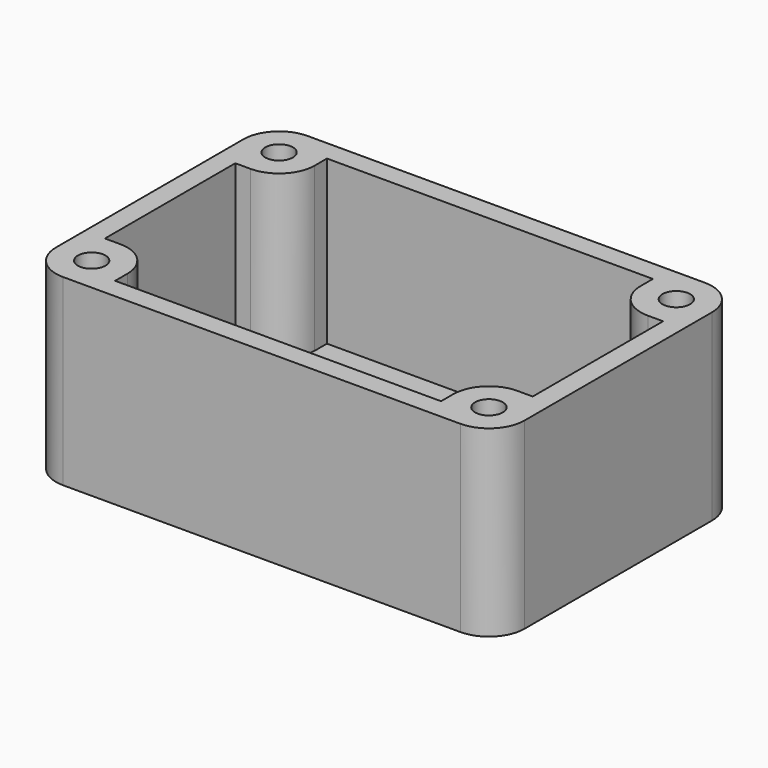
from build123d import *

# Parameters (mm, degrees)
F0_W     = 73.025
F0_H     = 47.625
F0_R     = 2.15265
F1_DEPTH = 25.4
F2_W     = 73.025
F2_H     = 47.625
F2_R     = 2.15265
F3_DEPTH = 3.175
F4_R     = 5.55625
F5_R     = 3.96875
F7_DEPTH = 25.4


with BuildPart() as f1:
    # F0 (on Top) → F1 (new body)
    with BuildSketch(Plane.XY):
        with Locations((-25.4, 12.7)):
            Rectangle(F0_W, F0_H)
        with Locations((-56.35625, -5.55625)):
            Circle(F0_R, mode=Mode.SUBTRACT)
        with Locations((5.55625, -5.55625)):
            Circle(F0_R, mode=Mode.SUBTRACT)
        Polygon((7.9375, 0), (0, 0), (0, -7.9375), (-50.8, -7.9375), (-50.8, 0), (-58.7375, 0), (-58.7375, 25.4), (-50.8, 25.4), (-50.8, 33.3375), (0, 33.3375), (0, 25.4), (7.9375, 25.4), align=None, mode=Mode.SUBTRACT)
        with Locations((-56.35625, 30.95625)):
            Circle(F0_R, mode=Mode.SUBTRACT)
        with Locations((5.55625, 30.95625)):
            Circle(F0_R, mode=Mode.SUBTRACT)
    extrude(amount=F1_DEPTH)

    # F2 (on face) → F3 (join)
    with BuildSketch(Plane(origin=(0, 0, 0), x_dir=(1, 0, 0), z_dir=(0, 0, -1))):
        with Locations((-25.4, -12.7)):
            Rectangle(F2_W, F2_H)
        with Locations((-56.35625, -30.95625)):
            Circle(F2_R, mode=Mode.SUBTRACT)
        with Locations((5.55625, -30.95625)):
            Circle(F2_R, mode=Mode.SUBTRACT)
        with Locations((-56.35625, 5.55625)):
            Circle(F2_R, mode=Mode.SUBTRACT)
        with Locations((5.55625, 5.55625)):
            Circle(F2_R, mode=Mode.SUBTRACT)
    extrude(amount=F3_DEPTH)

    # F4
    f4_edges = [f1.edges().sort_by_distance(p)[0] for p in [
        (-50.8, 25.4, 12.7),
        (-61.9125, 36.5125, 11.1125),
        (0, 25.4, 12.7),
        (11.1125, 36.5125, 11.1125),
        (0, 0, 12.7),
        (11.1125, -11.1125, 11.1125),
        (-50.8, 0, 12.7),
        (-61.9125, -11.1125, 11.1125),
    ]]
    fillet(f4_edges, radius=F4_R)

    # F5 (on face) → F7 (cut, through all)
    with BuildSketch(Plane(origin=(0, 0, -3.175), x_dir=(1, 0, 0), z_dir=(0, 0, -1))):
        with Locations((-56.35625, 5.55625)):
            Circle(F5_R)
        with Locations((5.55625, 5.55625)):
            Circle(F5_R)
        with Locations((5.55625, -30.95625)):
            Circle(F5_R)
        with Locations((-56.35625, -30.95625)):
            Circle(F5_R)
    extrude(amount=-F7_DEPTH, mode=Mode.SUBTRACT)


solid = f1.part
